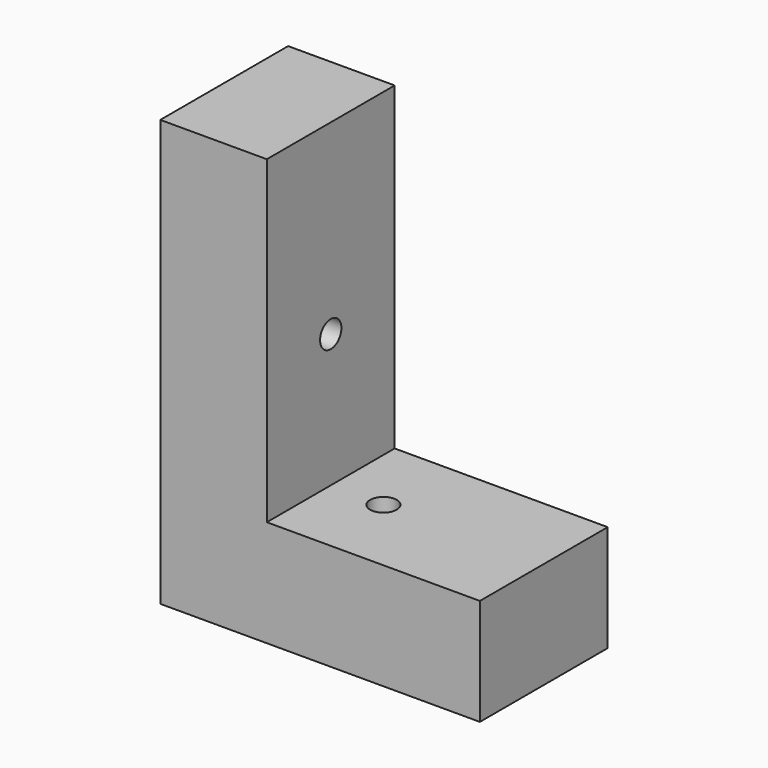
from build123d import *

# Parameters (mm, degrees)
F1_DEPTH = 76.2
F2_R     = 6.35
F3_DEPTH = 76.2
F4_R     = 6.35
F5_DEPTH = 76.2


with BuildPart() as f1:
    # F0 (on Front) → F1 (new body)
    with BuildSketch(Plane.XZ):
        Polygon((-25.129344, 99.525434), (-75.929344, 99.525434), (-75.929344, -103.674566), (76.470656, -103.674566), (76.470656, -52.874566), (-25.129344, -52.874566), align=None)
    extrude(amount=F1_DEPTH)

    # F2 (on Right) → F3 (cut)
    with BuildSketch(Plane.YZ):
        with Locations((-38.1, 10.625434)):
            Circle(F2_R)
    extrude(amount=-F3_DEPTH, mode=Mode.SUBTRACT)

    # F4 (on Top) → F5 (cut)
    with BuildSketch(Plane.XY):
        with Locations((0, -38.1)):
            Circle(F4_R)
    extrude(amount=-F5_DEPTH, mode=Mode.SUBTRACT)


solid = f1.part
